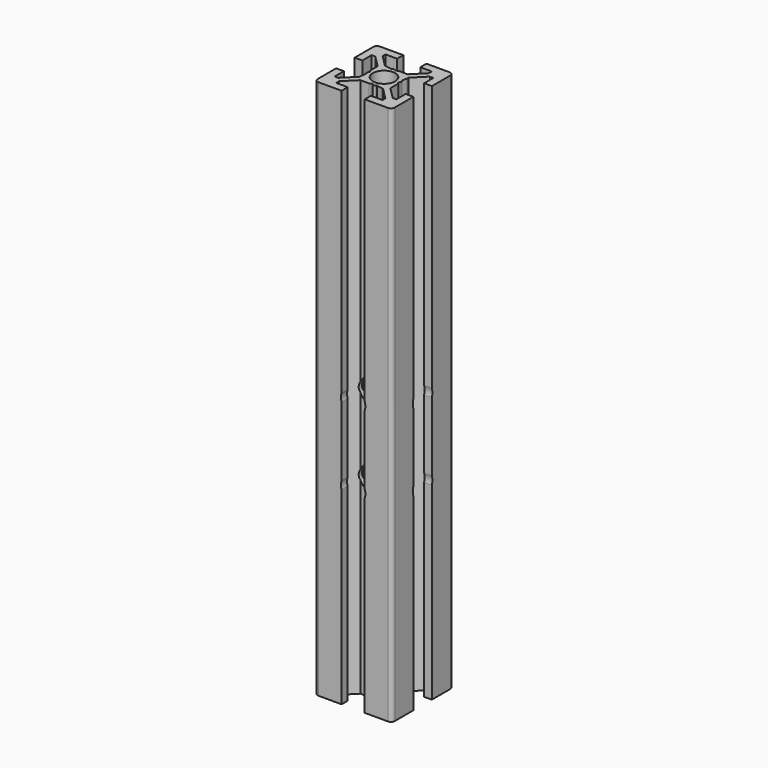
from build123d import *

# Parameters (mm, degrees)
SKETCH001_R     = 2.9
PAD_DEPTH       = 140
SKETCH_R        = 3.175
POCKET_DEPTH    = 20.001
SKETCH002_R     = 3.175
POCKET001_DEPTH = 20.001


with BuildPart() as part:
    # Sketch001 → Pad (new body)
    with BuildSketch(Plane.XY):
        with BuildLine():
            Line((-8, -3), (-10, -3))
            Line((-10, -3), (-10, -9))
            ThreePointArc((-10, -9), (-9.707107, -9.707107), (-9, -10))
            Line((-9, -10), (-3, -10))
            Line((-3, -10), (-3, -8))
            Line((-3, -8), (-6, -8))
            Line((-6, -8), (-6, -7.06066))
            Line((-6, -7.06066), (-2.93934, -4))
            Line((-2.93934, -4), (-0.65359, -4))
            ThreePointArc((-0.65359, -4), (-0.52418, -3.982963), (-0.40359, -3.933013))
            Line((-0.40359, -3.933013), (0, -3.7))
            Line((0, -3.7), (0.40359, -3.933013))
            ThreePointArc((0.40359, -3.933013), (0.65359, -4), (0.90359, -3.933013))
            Line((0.90359, -3.933013), (1.218886, -3.750977))
            Line((1.218886, -3.750977), (2.5, -4))
            Line((2.5, -4), (2.93934, -4))
            Line((2.93934, -4), (6, -7.06066))
            Line((6, -7.06066), (6, -8))
            Line((6, -8), (3, -8))
            Line((3, -8), (3, -10))
            Line((3, -10), (9, -10))
            ThreePointArc((9, -10), (9.707107, -9.707107), (10, -9))
            Line((10, -9), (10, -3))
            Line((10, -3), (8, -3))
            Line((8, -3), (8, -6))
            Line((8, -6), (7.06066, -6))
            Line((7.06066, -6), (4, -2.93934))
            Line((4, -2.93934), (4, -0.65359))
            ThreePointArc((4, -0.65359), (3.982963, -0.52418), (3.933013, -0.40359))
            Line((3.933013, -0.40359), (3.7, 0))
            Line((3.7, 0), (3.933013, 0.40359))
            ThreePointArc((3.933013, 0.40359), (4, 0.65359), (3.933013, 0.90359))
            Line((3.933013, 0.90359), (3.750977, 1.218886))
            Line((3.750977, 1.218886), (4, 2.5))
            Line((4, 2.5), (4, 2.93934))
            Line((4, 2.93934), (7.06066, 6))
            Line((7.06066, 6), (8, 6))
            Line((8, 6), (8, 3))
            Line((8, 3), (10, 3))
            Line((10, 3), (10, 9))
            ThreePointArc((10, 9), (9.707107, 9.707107), (9, 10))
            Line((9, 10), (3, 10))
            Line((3, 10), (3, 8))
            Line((3, 8), (6, 8))
            Line((6, 8), (6, 7.06066))
            Line((6, 7.06066), (2.93934, 4))
            Line((2.93934, 4), (0.65359, 4))
            ThreePointArc((0.65359, 4), (0.52418, 3.982963), (0.40359, 3.933013))
            Line((0.40359, 3.933013), (0, 3.7))
            Line((0, 3.7), (-0.40359, 3.933013))
            ThreePointArc((-0.40359, 3.933013), (-0.65359, 4), (-0.90359, 3.933013))
            Line((-0.90359, 3.933013), (-1.218886, 3.750977))
            Line((-1.218886, 3.750977), (-2.5, 4))
            Line((-2.5, 4), (-2.93934, 4))
            Line((-2.93934, 4), (-6, 7.06066))
            Line((-6, 7.06066), (-6, 8))
            Line((-6, 8), (-3, 8))
            Line((-3, 8), (-3, 10))
            Line((-3, 10), (-9, 10))
            ThreePointArc((-9, 10), (-9.707107, 9.707107), (-10, 9))
            Line((-10, 9), (-10, 3))
            Line((-10, 3), (-8, 3))
            Line((-8, 3), (-8, 6))
            Line((-8, 6), (-7.06066, 6))
            Line((-7.06066, 6), (-4, 2.93934))
            Line((-4, 2.93934), (-4, 0.65359))
            ThreePointArc((-4, 0.65359), (-3.982963, 0.52418), (-3.933013, 0.40359))
            Line((-3.933013, 0.40359), (-3.7, 0))
            Line((-3.7, 0), (-3.933013, -0.40359))
            ThreePointArc((-3.933013, -0.40359), (-4, -0.65359), (-3.933013, -0.90359))
            Line((-3.933013, -0.90359), (-3.750977, -1.218886))
            Line((-3.750977, -1.218886), (-4, -2.5))
            Line((-4, -2.5), (-4, -2.93934))
            Line((-4, -2.93934), (-7.06066, -6))
            Line((-7.06066, -6), (-8, -6))
            Line((-8, -6), (-8, -3))
        make_face()
        Circle(SKETCH001_R, mode=Mode.SUBTRACT)
    extrude(amount=PAD_DEPTH)

    # Sketch (on Face4 of Pad) → Pocket (cut, through all)
    with BuildSketch(Plane.XZ.offset(10)):
        with Locations((0, 70)):
            Circle(SKETCH_R)
        with Locations((0, 50)):
            Circle(SKETCH_R)
    extrude(amount=-POCKET_DEPTH, mode=Mode.SUBTRACT)

    # Sketch002 (on Face65 of Pocket) → Pocket001 (cut, through all)
    with BuildSketch(Plane(origin=(-10, 0, 0), x_dir=(0, -1, 0), z_dir=(-1, 0, 0))):
        with Locations((0, 50)):
            Circle(SKETCH002_R)
        with Locations((0, 70)):
            Circle(SKETCH002_R)
    extrude(amount=-POCKET001_DEPTH, mode=Mode.SUBTRACT)


solid = part.part
